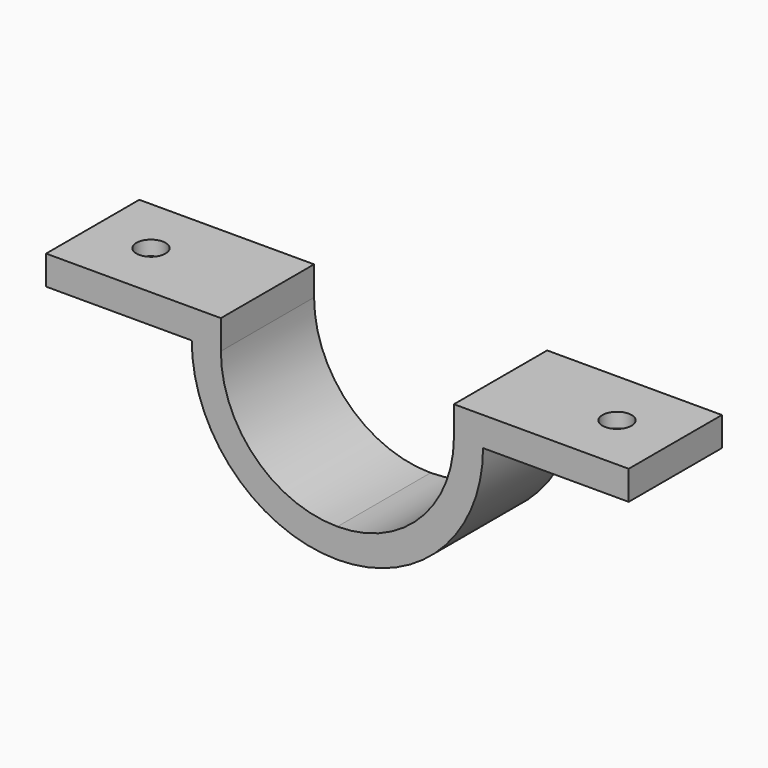
from build123d import *

# Parameters (mm, degrees)
F1_DEPTH       = 12.7
F3_D           = 6.35
F3_CSINK_D     = 12.7
F3_CSINK_ANGLE = 90


with BuildPart() as f1:
    # F0 (on Front) → F1 (new body, symmetric)
    with BuildSketch(Plane.XZ):
        with BuildLine():
            ThreePointArc((25.4, 0), (17.960512, -17.960512), (0, -25.4))
            ThreePointArc((0, -25.4), (-17.960512, -17.960512), (-25.4, 0))
            Line((-25.4, 0), (-31.75, 0))
            ThreePointArc((-31.75, 0), (-22.45064, -22.45064), (0, -31.75))
            ThreePointArc((0, -31.75), (22.45064, -22.45064), (31.75, 0))
            Line((31.75, 0), (25.4, 0))
        make_face()
        Polygon((-31.75, 0), (-25.4, 0), (-25.4, 6.35), (-63.5, 6.35), (-63.5, 0), align=None)
        Polygon((25.4, 6.35), (25.4, 0), (31.75, 0), (63.5, 0), (63.5, 6.35), align=None)
    extrude(amount=F1_DEPTH, both=True)

    # F3 (through all)
    with Locations(Plane(origin=(0, 0, 0), x_dir=(1, 0, 0), z_dir=(0, 0, -1))):
        with Locations((-50.8, 0), (50.8, 0)):
            CounterSinkHole(F3_D / 2, F3_CSINK_D / 2, counter_sink_angle=F3_CSINK_ANGLE)


solid = f1.part
